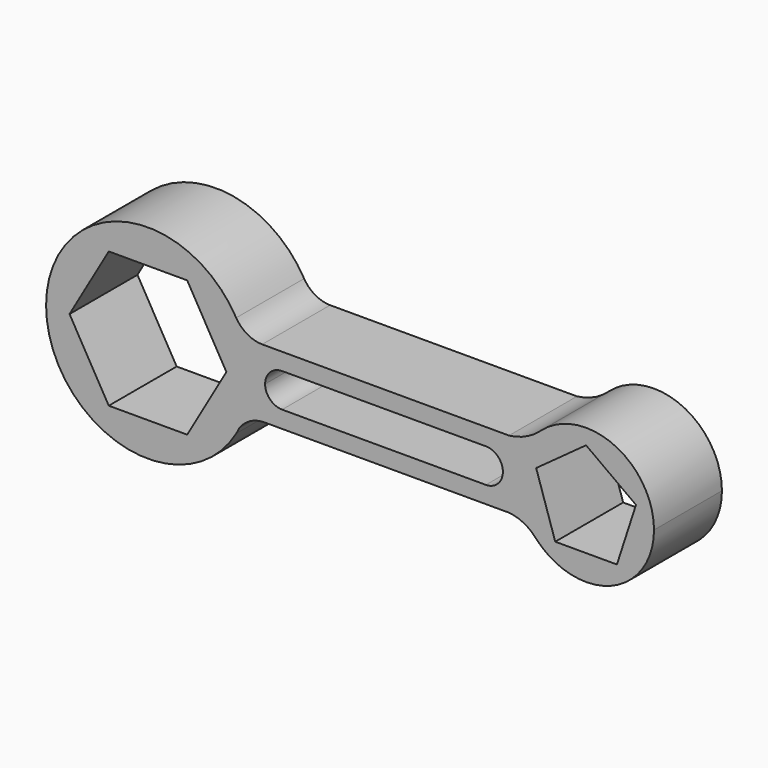
from build123d import *

# Parameters (mm, degrees)
F1_DEPTH = 25


with BuildPart() as f1:
    # F0 (on Front) → F1 (new body)
    with BuildSketch(Plane.XZ):
        with BuildLine():
            ThreePointArc((-47.200934, 5.495797), (-44.857028, 11.994081), (-44.061668, 18.856224))
            ThreePointArc((-44.061668, 18.856224), (-45.082752, 26.616537), (-48.076498, 33.848588))
            ThreePointArc((-48.076498, 33.848588), (-104.061668, 18.856224), (-48.076498, 3.86386))
            ThreePointArc((-48.076498, 3.86386), (-47.680805, 4.70241), (-47.200934, 5.495797))
        make_face()
        Polygon((-50.967657, 18.856224), (-62.514662, -1.143776), (-85.608673, -1.143776), (-97.155678, 18.856224), (-85.608673, 38.856224), (-62.514662, 38.856224), align=None, mode=Mode.SUBTRACT)
        with BuildLine():
            ThreePointArc((-48.076498, 33.848588), (-45.082752, 26.616537), (-44.061668, 18.856224))
            ThreePointArc((-44.061668, 18.856224), (-44.857028, 11.994081), (-47.200934, 5.495797))
            ThreePointArc((-47.200934, 5.495797), (-44.050096, 8.353814), (-39.938613, 9.44549))
            ThreePointArc((-39.938613, 9.44549), (-39.75014, 9.447464), (-39.561668, 9.44549))
            Line((-39.561668, 9.44549), (32.267917, 9.44549))
            ThreePointArc((32.267917, 9.44549), (36.419146, 8.266375), (39.882178, 5.691414))
            ThreePointArc((39.882178, 5.691414), (34.963544, 19.860129), (41.278004, 33.464284))
            ThreePointArc((41.278004, 33.464284), (37.065408, 30.767494), (32.241412, 29.44549))
            Line((32.241412, 29.44549), (-40.242027, 29.44549))
            ThreePointArc((-40.242027, 29.44549), (-40.338717, 29.444971), (-40.435406, 29.44549))
            ThreePointArc((-40.435406, 29.44549), (-44.832218, 30.646993), (-48.076498, 33.848588))
        make_face()
        with BuildLine():
            Line((25.438332, 14.44549), (-34.561668, 14.44549))
            ThreePointArc((-34.561668, 14.44549), (-38.097201, 15.909956), (-39.561668, 19.44549))
            ThreePointArc((-39.561668, 19.44549), (-38.097201, 22.981024), (-34.561668, 24.44549))
            Line((-34.561668, 24.44549), (25.438332, 24.44549))
            ThreePointArc((25.438332, 24.44549), (28.973866, 22.981024), (30.438332, 19.44549))
            ThreePointArc((30.438332, 19.44549), (28.973866, 15.909956), (25.438332, 14.44549))
        make_face(mode=Mode.SUBTRACT)
        with BuildLine():
            ThreePointArc((-48.076498, 3.86386), (-47.62612, 4.673071), (-47.200934, 5.495797))
            ThreePointArc((-47.200934, 5.495797), (-47.680805, 4.70241), (-48.076498, 3.86386))
        make_face()
        with BuildLine():
            Line((-40.242027, 29.44549), (-40.435406, 29.44549))
            ThreePointArc((-40.435406, 29.44549), (-40.338717, 29.444971), (-40.242027, 29.44549))
        make_face()
        with BuildLine():
            ThreePointArc((-39.561668, 9.44549), (-39.75014, 9.447464), (-39.938613, 9.44549))
            Line((-39.938613, 9.44549), (-39.561668, 9.44549))
        make_face()
        with BuildLine():
            ThreePointArc((41.700923, 33.848588), (41.491114, 33.654619), (41.278004, 33.464284))
            ThreePointArc((41.278004, 33.464284), (34.963544, 19.860129), (39.882178, 5.691414))
            ThreePointArc((39.882178, 5.691414), (40.041976, 5.516486), (40.198279, 5.338428))
            ThreePointArc((40.198279, 5.338428), (62.190881, 0.21754), (74.938332, 18.856224))
            ThreePointArc((74.938332, 18.856224), (63.161829, 37.087354), (41.700923, 33.848588))
        make_face()
        Polygon((69.632964, 23.630799), (64.020114, 6.356224), (45.856551, 6.356224), (40.243701, 23.630799), (54.938332, 34.307074), align=None, mode=Mode.SUBTRACT)
        with BuildLine():
            ThreePointArc((41.700923, 33.848588), (41.488091, 33.657947), (41.278004, 33.464284))
            ThreePointArc((41.278004, 33.464284), (41.491114, 33.654619), (41.700923, 33.848588))
        make_face()
        with BuildLine():
            ThreePointArc((40.198279, 5.338428), (40.041976, 5.516486), (39.882178, 5.691414))
            ThreePointArc((39.882178, 5.691414), (40.039183, 5.513985), (40.198279, 5.338428))
        make_face()
    extrude(amount=F1_DEPTH)


solid = f1.part
